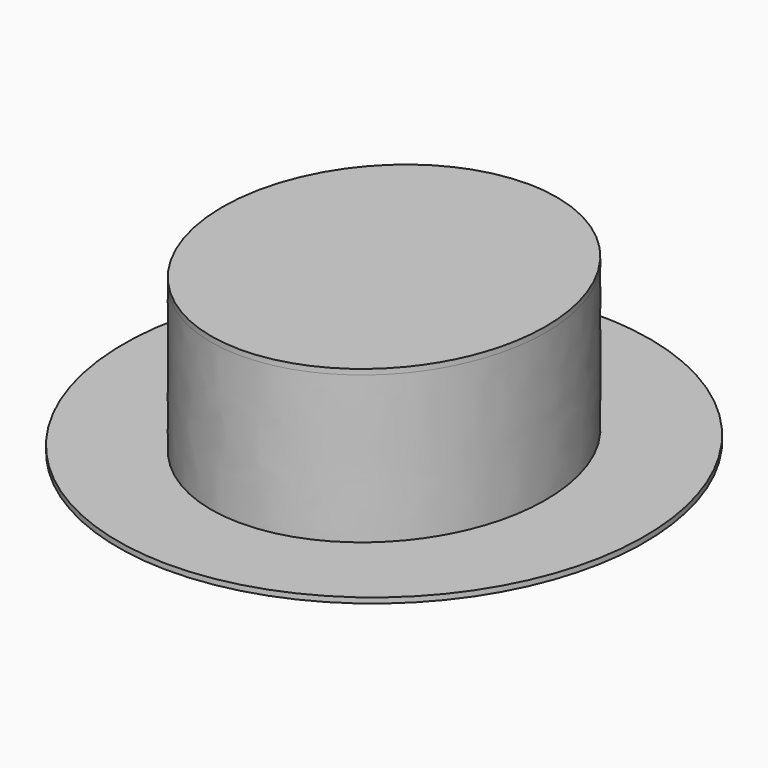
from build123d import *

# Parameters (mm, degrees)
EXTRUDE001_DEPTH = 85
EXTRUDE002_DEPTH = 3
EXTRUDE_DEPTH    = 3


with BuildPart() as wall:
    # Sketch001 → Extrude001 (new body)
    with BuildSketch(Plane.XY):
        with BuildLine():
            add(Edge.make_bspline(
                [(0, 100), (-155.884573, 100), (-77.942286, -50), (0, -200), (77.942286, -50), (155.884573, 100), (0, 100)],
                knots=[0, 0, 0, 2.094395, 2.094395, 4.18879, 4.18879, 6.283185, 6.283185, 6.283185], degree=2, weights=[1, 0.5, 1, 0.5, 1, 0.5, 1]))
        make_face()
        with BuildLine():
            add(Edge.make_bspline(
                [(0, 97.5), (-151.554446, 97.5), (-75.777223, -48.75), (0, -195), (75.777223, -48.75), (151.554446, 97.5), (0, 97.5)],
                knots=[0, 0, 0, 2.094395, 2.094395, 4.18879, 4.18879, 6.283185, 6.283185, 6.283185], degree=2, weights=[1, 0.5, 1, 0.5, 1, 0.5, 1]))
        make_face(mode=Mode.SUBTRACT)
    extrude(amount=EXTRUDE001_DEPTH)


with BuildPart() as top:
    # Sketch002 → Extrude002 (new body)
    with BuildSketch(Plane.XY):
        with BuildLine():
            add(Edge.make_bspline(
                [(0, 100), (-155.884573, 100), (-77.942286, -50), (0, -200), (77.942286, -50), (155.884573, 100), (0, 100)],
                knots=[0, 0, 0, 2.094395, 2.094395, 4.18879, 4.18879, 6.283185, 6.283185, 6.283185], degree=2, weights=[1, 0.5, 1, 0.5, 1, 0.5, 1]))
        make_face()
    extrude(amount=EXTRUDE002_DEPTH)


with BuildPart() as top_1:
    # Extrude002 placement: moved
    add(top.part.moved(Location((0, 0, 85))))


with BuildPart() as hat:
    # Sketch → Extrude (new body)
    with BuildSketch(Plane.XY):
        with BuildLine():
            add(Edge.make_bspline(
                [(0, 150), (-251.147367, 150), (-125.573684, -75), (0, -300), (125.573684, -75), (251.147367, 150), (0, 150)],
                knots=[0, 0, 0, 2.094395, 2.094395, 4.18879, 4.18879, 6.283185, 6.283185, 6.283185], degree=2, weights=[1, 0.5, 1, 0.5, 1, 0.5, 1]))
        make_face()
        with BuildLine():
            add(Edge.make_bspline(
                [(0, 100), (-155.884573, 100), (-77.942286, -50), (0, -200), (77.942286, -50), (155.884573, 100), (0, 100)],
                knots=[0, 0, 0, 2.094395, 2.094395, 4.18879, 4.18879, 6.283185, 6.283185, 6.283185], degree=2, weights=[1, 0.5, 1, 0.5, 1, 0.5, 1]))
        make_face(mode=Mode.SUBTRACT)
    extrude(amount=EXTRUDE_DEPTH)

    # Fusion: union wall, top
    add(wall.part)
    add(top_1.part)


solid = hat.part
